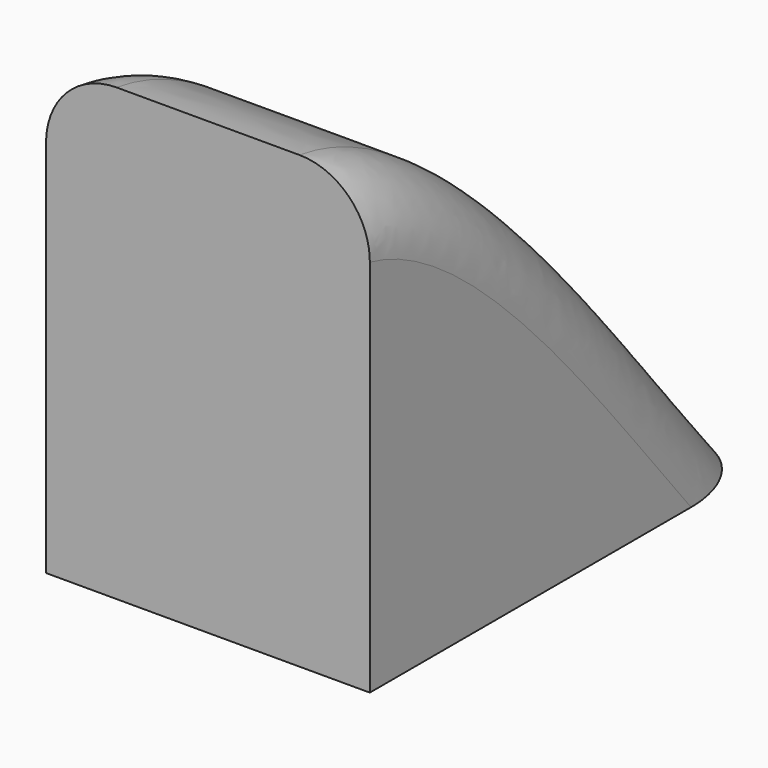
from build123d import *

# Parameters (mm, degrees)
F1_DEPTH = 23
F2_R     = 5


with BuildPart() as f1:
    # F0 (on Right) → F1 (new body)
    with BuildSketch(Plane.YZ):
        with BuildLine():
            Line((0, 32), (0, 0))
            Line((0, 0), (35, 0))
            add(Edge.make_bspline(
                [(0, 32), (6.1176732558, 31.1241345812), (18.7744410969, 20.7877141071), (28.3450948651, 8.007303629), (35, 0)],
                knots=[0, 0, 0, 0, 0.4619845032, 1, 1, 1, 1], degree=3))
        make_face()
    extrude(amount=F1_DEPTH)

    # F2
    f2_edges = [f1.edges().sort_by_distance(p)[0] for p in [
        (23, 19.530043, 18.544117),
        (0, 19.530043, 18.544117),
    ]]
    fillet(f2_edges, radius=F2_R)


solid = f1.part
